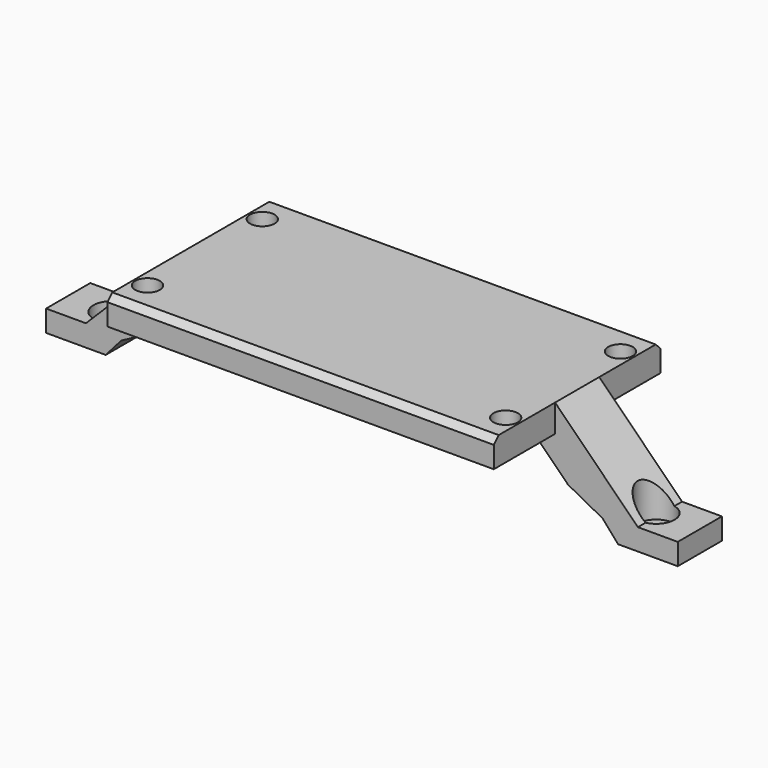
from build123d import *

# Parameters (mm, degrees)
SKETCH_W                      = 103
SKETCH_H                      = 9
PAD_DEPTH                     = 17
POCKET_DEPTH                  = 5.5
POCKET001_DEPTH               = 4.5
SKETCH003_W                   = 63
SKETCH003_H                   = 4.5
PAD001_DEPTH                  = 17
SKETCH005_R                   = 3
POCKET002_DEPTH               = 2.5
POCKET002_DEPTH_BACK          = 5
SKETCH006_R                   = 1.75
POCKET003_DEPTH               = 5
SKETCH007_R                   = 2
POCKET004_DEPTH               = 28
SKETCH007_MIRRORED002_2_R     = 2
POCKET004_MIRRORED002_2_DEPTH = 28
POCKET005_DEPTH               = 7
CHAMFER_SIZE                  = 1


with BuildPart() as part:
    # Sketch → Pad (new body)
    with BuildSketch(Plane.XY):
        Rectangle(SKETCH_W, SKETCH_H)
    extrude(amount=PAD_DEPTH)

    # Sketch001 → Pocket (cut, symmetric)
    with BuildSketch(Plane.XZ):
        Polygon((-39.5, 0), (-27, 12.5), (27, 12.5), (39.5, 0), align=None)
    extrude(amount=POCKET_DEPTH, both=True, mode=Mode.SUBTRACT)

    # Sketch002 → Pocket001 (cut, symmetric)
    with BuildSketch(Plane.XZ):
        Polygon((-51.88, 3.5), (-45, 3.5), (-31, 17.5), (-51.88, 17.5), align=None)
    pocket001 = extrude(amount=POCKET001_DEPTH, both=True, mode=Mode.SUBTRACT)

    # Mirrored: Pocket001 across Sketch002 V_Axis
    add(pocket001.mirror(Plane(origin=(0, 0, 0), x_dir=(0, -1, 0), z_dir=(1, 0, 0))), mode=Mode.SUBTRACT)

    # Sketch003 → Pad001 (join, symmetric)
    with BuildSketch(Plane.XZ):
        with Locations((0, 14.75)):
            Rectangle(SKETCH003_W, SKETCH003_H)
    extrude(amount=PAD001_DEPTH, both=True)

    # Sketch005 (on DatumPlane) → Pocket002 (cut, two sides)
    with BuildSketch(Plane.XY.offset(3.5)) as pocket002_sk:
        with Locations((-44.37, 0)):
            Circle(SKETCH005_R)
    pocket002 = extrude(amount=-POCKET002_DEPTH, mode=Mode.SUBTRACT) + extrude(pocket002_sk.sketch, amount=POCKET002_DEPTH_BACK, mode=Mode.SUBTRACT)

    # Sketch006 (on DatumPlane) → Pocket003 (cut)
    with BuildSketch(Plane.XY.offset(3.5)):
        with Locations((-44.37, 0)):
            Circle(SKETCH006_R)
    pocket003 = extrude(amount=-POCKET003_DEPTH, mode=Mode.SUBTRACT)

    # Mirrored001: Pocket003, Pocket002 across Sketch006 V_Axis
    add(pocket003.mirror(Plane(origin=(0, 0, 3.5), x_dir=(0, 0, 1), z_dir=(1, 0, 0))), mode=Mode.SUBTRACT)
    add(pocket002.mirror(Plane(origin=(0, 0, 3.5), x_dir=(0, 0, 1), z_dir=(1, 0, 0))), mode=Mode.SUBTRACT)

    # Sketch007 → Pocket004 (cut)
    with BuildSketch(Plane.XY):
        with Locations((-29.2, 11.7)):
            Circle(SKETCH007_R)
    pocket004 = extrude(amount=POCKET004_DEPTH, mode=Mode.SUBTRACT)

    # Sketch007 Mirrored002 2 → Pocket004 Mirrored002 2 (cut)
    with BuildSketch(Plane(origin=(0, 0, 0), x_dir=(-1, 0, 0), z_dir=(0, 0, -1))):
        with Locations((-29.2, 11.7)):
            Circle(SKETCH007_MIRRORED002_2_R)
    pocket004_mirrored002_2 = extrude(amount=-POCKET004_MIRRORED002_2_DEPTH, mode=Mode.SUBTRACT)

    # Mirrored003: Pocket004, Pocket004 Mirrored002 2 across XZ
    add(pocket004.mirror(Plane.XZ), mode=Mode.SUBTRACT)
    add(pocket004_mirrored002_2.mirror(Plane.XZ), mode=Mode.SUBTRACT)

    # Sketch008 → Pocket005 (cut, symmetric)
    with BuildSketch(Plane.XZ):
        Polygon((-41.778629, 0), (-39.243446, 2.885116), (-33.286407, 6.06738), (-33.286407, 0), align=None)
    pocket005 = extrude(amount=POCKET005_DEPTH, both=True, mode=Mode.SUBTRACT)

    # Mirrored004: Pocket005 across Sketch008 V_Axis
    add(pocket005.mirror(Plane(origin=(0, 0, 0), x_dir=(0, -1, 0), z_dir=(1, 0, 0))), mode=Mode.SUBTRACT)

    # Chamfer
    chamfer_edges = [part.edges().sort_by_distance(p)[0] for p in [
        (0, -17, 17),
        (0, 17, 17),
    ]]
    chamfer(chamfer_edges, length=CHAMFER_SIZE)


solid = part.part
